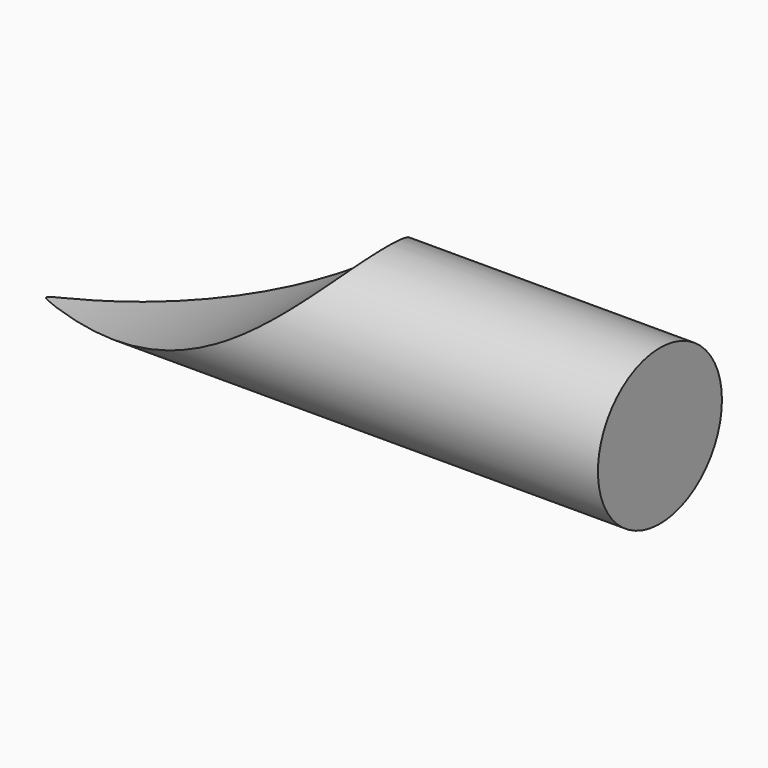
from build123d import *

# Parameters (mm, degrees)
F0_R     = 19.05
F1_DEPTH = 152.4
F3_D     = 228.6
F3_DEPTH = 19.051
F4_D     = 228.6


with BuildPart() as f1:
    # F0 (on Right) → F1 (new body)
    with BuildSketch(Plane.YZ):
        Circle(F0_R)
    extrude(amount=F1_DEPTH)

    # F3 (through all, one way)
    with BuildSketch(Plane.XZ):
        with Locations((0, 95.2389016747)):
            Circle(F3_D / 2)
    extrude(amount=-F3_DEPTH, mode=Mode.SUBTRACT)

    # F4 (through all)
    with Locations(Plane(origin=(0, 0, 0), x_dir=(1, 0, 0), z_dir=(0, 1, 0))):
        with Locations((0, -95.2389016747)):
            Hole(F4_D / 2)


solid = f1.part
